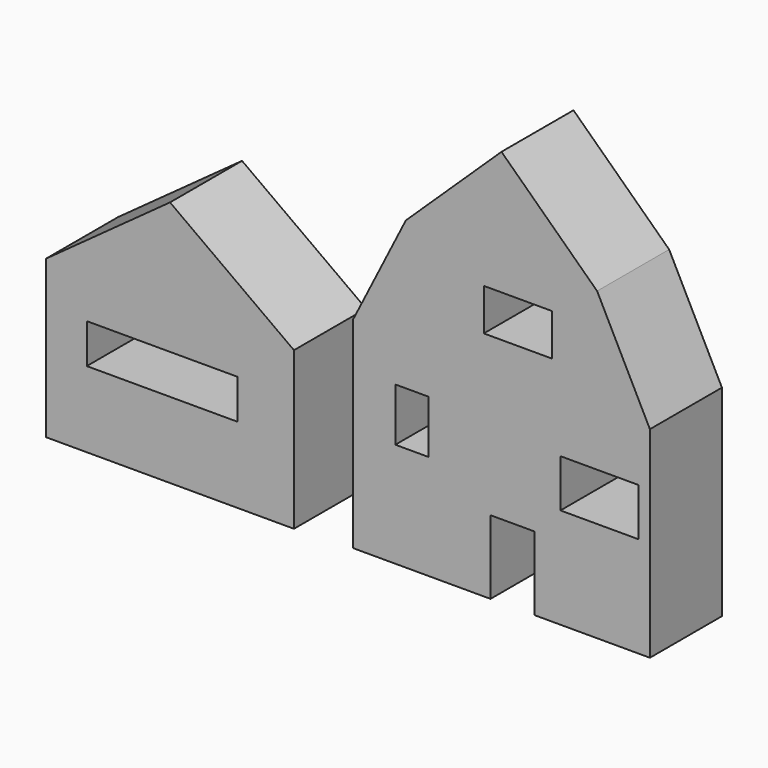
from build123d import *

# Parameters (mm, degrees)
F0_W     = 9.3158846721
F0_H     = 14.9706853554
F0_W_2   = 21.9588726759
F0_H_2   = 13.4825551831
F1_DEPTH = 25.4


with BuildPart() as f1:
    # F0 (on Front) → F1 (new body)
    with BuildSketch(Plane.XZ):
        Polygon((37.7607141337, 61.5308982338), (10.7822067568, 35.7252753039), (64.7458224195, 35.7252753039), align=None)
        Polygon((10.7822067568, 35.7252753039), (-4.1087467591, 6.25359562), (79.6367759354, 6.25359562), (64.7458224195, 35.7252753039), align=None)
        Polygon((32.7768977731, 14.8043464869), (32.7768977731, 26.6145523638), (42.4254965037, 26.6145523638), (52.0740952343, 26.6145523638), (52.0740952343, 14.8043464869), align=None, mode=Mode.SUBTRACT)
        Polygon((79.6367759354, 6.25359562), (-4.1087467591, 6.25359562), (-4.1087467591, -50.5181662333), (34.6697755069, -50.5181662333), (34.6697755069, -29.7328753043), (47.0789076344, -29.7328753043), (47.0789076344, -50.5181662333), (79.6367759354, -50.5181662333), align=None)
        with Locations((12.4815893359, -13.4736173786)):
            Rectangle(F0_W, F0_H, mode=Mode.SUBTRACT)
        with Locations((65.3824955225, -15.3910077151)):
            Rectangle(F0_W_2, F0_H_2, mode=Mode.SUBTRACT)
    extrude(amount=F1_DEPTH)


with BuildPart() as f1b:
    # F0 (on Front) → F1, piece 2 (new body)
    with BuildSketch(Plane.XZ):
        Polygon((-55.7479149937, 18.5553483021), (-90.7150944341, -6.7785965541), (-20.7807355532, -6.7785965541), align=None)
        Polygon((-79.236643916, -29.7354863002), (-79.236643916, -51.1412293196), (-36.7353873963, -51.1412293196), (-36.7353873963, -29.7354863002), (-45.4217270829, -29.7354863002), (-53.1771524115, -29.7354863002), (-61.554026828, -29.7354863002), (-70.2411481329, -29.7354863002), align=None)
        Polygon((-20.7807355532, -6.7785965541), (-90.7150944341, -6.7785965541), (-90.7150944341, -51.1412293196), (-79.236643916, -51.1412293196), (-79.236643916, -29.7354863002), (-79.236643916, -18.5672687751), (-70.2411481329, -18.5672687751), (-61.554026828, -18.5672687751), (-53.1771524115, -18.5672687751), (-45.4217270829, -18.5672687751), (-36.7353873963, -18.5672687751), (-36.7353873963, -29.7354863002), (-36.7353873963, -51.1412293196), (-20.7807355532, -51.1412293196), align=None)
    extrude(amount=F1_DEPTH)


solid = Compound([f1.part, f1b.part])
